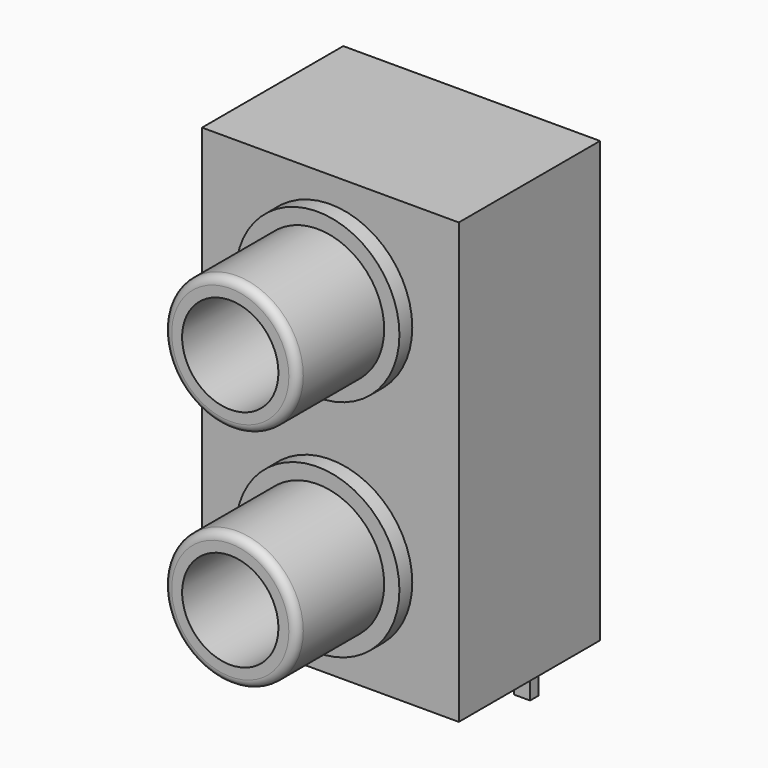
from build123d import *

# Parameters (mm, degrees)
F0_R     = 4.15
F0_R_2   = 3
F2_DEPTH = 7.8
F3_R     = 0.5
F1_R     = 5.1
F1_R_2   = 3
F4_DEPTH = 1
F0_W     = 16
F0_H     = 27.4
F5_DEPTH = 11
F6_W     = 1
F6_H     = 0.65
F7_DEPTH = 4


with BuildPart() as f2:
    # F0 (on Front) → F2 (new body)
    with BuildSketch(Plane.XZ):
        with Locations((0, 20.7)):
            Circle(F0_R)
        with Locations((0, 20.7)):
            Circle(F0_R_2, mode=Mode.SUBTRACT)
        with Locations((0, 6.7)):
            Circle(F0_R)
        with Locations((0, 6.7)):
            Circle(F0_R_2, mode=Mode.SUBTRACT)
    extrude(amount=F2_DEPTH)

    # F3
    f3_edges = [f2.edges().sort_by_distance(p)[0] for p in [
        (-4.15, -7.8, 20.7),
        (-4.15, -7.8, 6.7),
    ]]
    fillet(f3_edges, radius=F3_R)


with BuildPart() as f4:
    # F1 (on Front) → F4 (new body)
    with BuildSketch(Plane.XZ):
        with Locations((0, 20.7)):
            Circle(F1_R)
        with Locations((0, 20.7)):
            Circle(F1_R_2, mode=Mode.SUBTRACT)
        with Locations((0, 6.7)):
            Circle(F1_R)
        with Locations((0, 6.7)):
            Circle(F1_R_2, mode=Mode.SUBTRACT)
    extrude(amount=F4_DEPTH)


with BuildPart() as f5:
    # F0 (on Front) → F5 (new body)
    with BuildSketch(Plane.XZ):
        with Locations((0, 13.7)):
            Rectangle(F0_W, F0_H)
        with Locations((0, 6.7)):
            Circle(F0_R, mode=Mode.SUBTRACT)
        with Locations((0, 20.7)):
            Circle(F0_R, mode=Mode.SUBTRACT)
    extrude(amount=-F5_DEPTH)

    # F6 (on Top) → F7 (join)
    with BuildSketch(Plane.XY):
        with Locations((0, 7)):
            Rectangle(F6_W, F6_H)
        with Locations((-4, 11.5)):
            Rectangle(F6_W, F6_H)
        with Locations((4, 10.25)):
            Rectangle(F6_W, F6_H)
    extrude(amount=-F7_DEPTH)


solid = Compound([f2.part, f4.part, f5.part])
